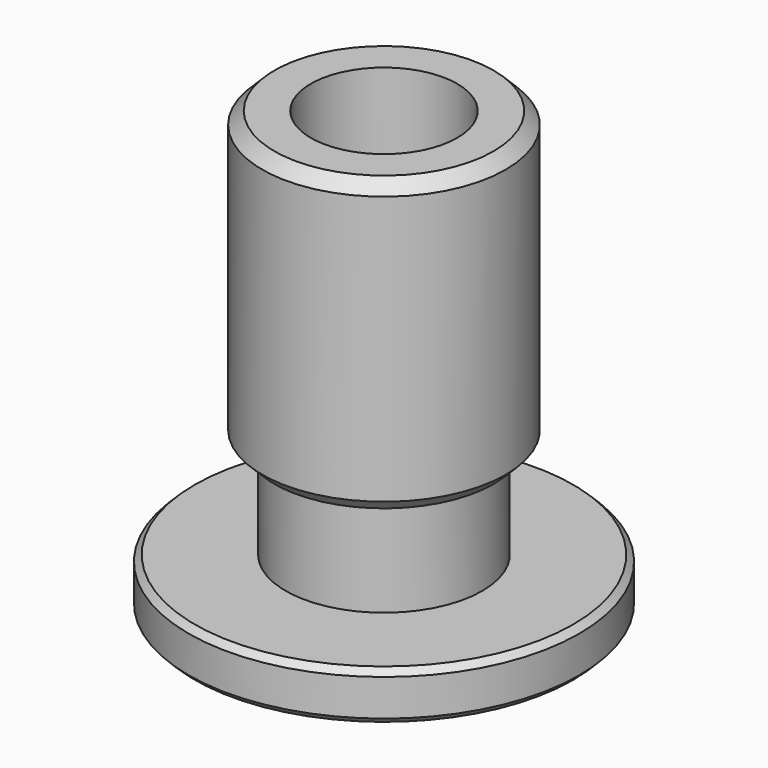
from build123d import *

# Parameters (mm, degrees)
F0_R     = 8
F0_R_2   = 4.986346
F0_R_3   = 4.028364
F1_DEPTH = 2
F0_R_4   = 3
F2_DEPTH = 18
F3_R     = 4.986346
F4_DEPTH = 12
F5_DEPTH = 44.1
F6_SIZE  = 0.25
F7_SIZE  = 0.5


with BuildPart() as f1:
    # F0 (on Top) → F1 (new body)
    with BuildSketch(Plane.XY):
        Circle(F0_R)
        Circle(F0_R_2, mode=Mode.SUBTRACT)
        Circle(F0_R_2)
        Circle(F0_R_3, mode=Mode.SUBTRACT)
    extrude(amount=F1_DEPTH)

    # F0 (on Top) → F2 (join)
    with BuildSketch(Plane.XY):
        Circle(F0_R_4)
        Circle(F0_R_3)
        Circle(F0_R_4, mode=Mode.SUBTRACT)
    extrude(amount=F2_DEPTH)

    # F3 (on face) → F4 (join)
    with BuildSketch(Plane.XY.offset(18)):
        Circle(F3_R)
    extrude(amount=-F4_DEPTH)

    # F0 (on Top) → F5 (cut)
    with BuildSketch(Plane.XY):
        Circle(F0_R_4)
    extrude(amount=F5_DEPTH, mode=Mode.SUBTRACT)

    # F6
    f6_edges = [f1.edges().sort_by_distance(p)[0] for p in [
        (8, 0, 1),
        (-8, 0, 0),
        (-8, 0, 2),
    ]]
    chamfer(f6_edges, length=F6_SIZE)

    # F7
    f7_edges = [f1.edges().sort_by_distance(p)[0] for p in [
        (-4.986346, 0, 6),
        (-4.986346, 0, 18),
    ]]
    chamfer(f7_edges, length=F7_SIZE)


solid = f1.part
